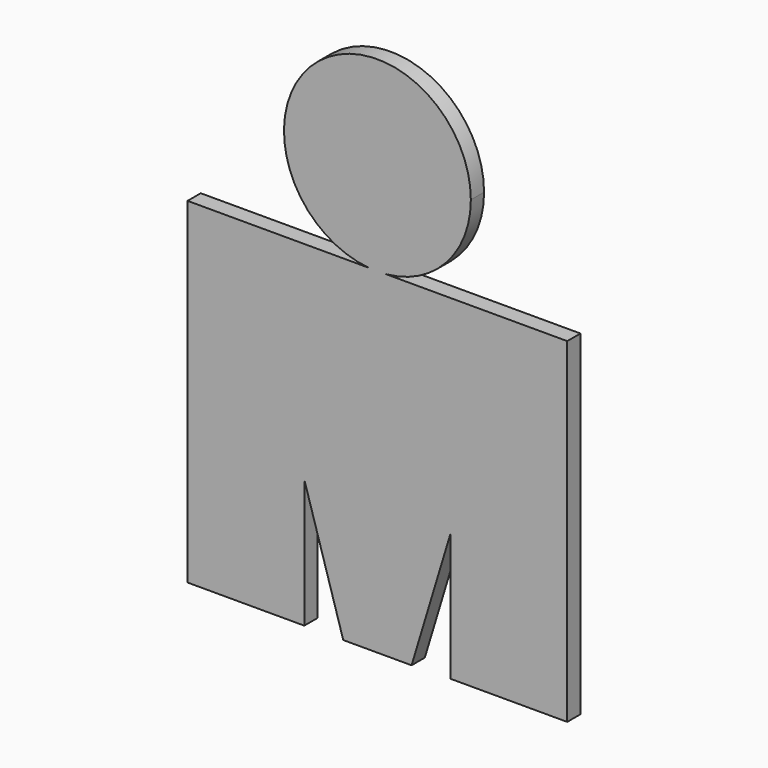
from build123d import *

# Parameters (mm, degrees)
F1_DEPTH = 1


with BuildPart() as f1:
    # F0 (on Front) → F1 (new body)
    with BuildSketch(Plane.XZ):
        with BuildLine():
            ThreePointArc((0.5134190636, 20.3306143382), (4.1745945423, 22.1487100844), (5.6526372145, 25.9598867907))
            ThreePointArc((5.6526372145, 25.9598867907), (-3.8111767063, 30.134481333), (-0.5134190636, 20.3306143382))
            Line((-0.5134190636, 20.3306143382), (0.5134190636, 20.3306143382))
        make_face()
        with BuildLine():
            Line((0.5134190636, 20.3306143382), (-0.5134190636, 20.3306143382))
            ThreePointArc((-0.5134190636, 20.3306143382), (0, 20.3072495762), (0.5134190636, 20.3306143382))
        make_face()
        with BuildLine():
            ThreePointArc((0.5134190636, 20.3306143382), (0, 20.3072495762), (-0.5134190636, 20.3306143382))
            Line((-0.5134190636, 20.3306143382), (-11.4882850616, 20.3306143382))
            Line((-11.4882850616, 20.3306143382), (-11.4882850616, 0))
            Line((-11.4882850616, 0), (-4.4247405394, 0))
            Line((-4.4247405394, 0), (-4.4247405394, 7.7945953777))
            Line((-4.4247405394, 7.7945953777), (-2.0671913816, 0))
            Line((-2.0671913816, 0), (2.0671913816, 0))
            Line((2.0671913816, 0), (4.4247405394, 7.7945953777))
            Line((4.4247405394, 7.7945953777), (4.4247405394, 0.0472759202))
            Line((4.4247405394, 0.0472759202), (11.4850704372, 0.0472759202))
            Line((11.4850704372, 0.0472759202), (11.4850704372, 20.3306143382))
            Line((11.4850704372, 20.3306143382), (0.5134190636, 20.3306143382))
        make_face()
    extrude(amount=F1_DEPTH)


solid = f1.part
